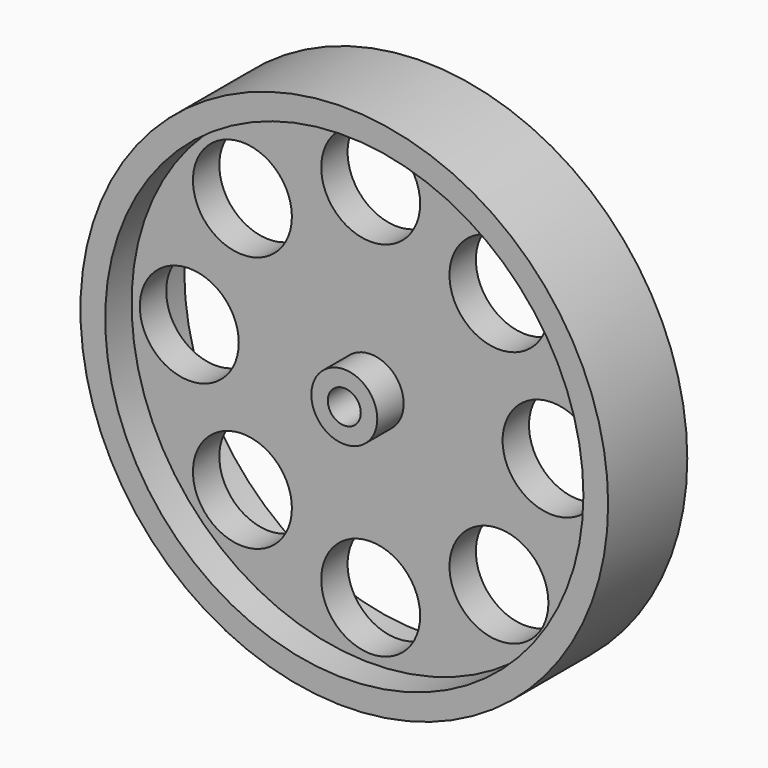
from build123d import *

# Parameters (mm, degrees)
F0_R           = 50.8
F1_DEPTH       = 19.05
F2_R           = 3.175
F3_DEPTH       = 19.051
F4_R           = 9.525
F5_DEPTH       = 19.051
F6_R           = 46.0375
F6_R_2         = 9.525
F6_R_3         = 3.175
F7_DEPTH       = 6.35
F8_R           = 46.0375
F8_R_2         = 9.525
F8_R_3         = 3.175
F9_DEPTH       = 6.35
F10_R          = 6.35
F10_R_2        = 3.175
F11_DEPTH      = 6.35
F11_DEPTH_BACK = 12.7


with BuildPart() as f1:
    # F0 (on Front) → F1 (new body)
    with BuildSketch(Plane.XZ):
        Circle(F0_R)
    extrude(amount=F1_DEPTH)

    # F2 (on face) → F3 (cut, through all)
    with BuildSketch(Plane.XZ.offset(19.05)):
        Circle(F2_R)
    extrude(amount=-F3_DEPTH, mode=Mode.SUBTRACT)

    # F4 (on face) → F5 (cut, through all)
    with BuildSketch(Plane.XZ.offset(19.05)):
        with Locations((-24.6957043329, 24.6957043329)):
            Circle(F4_R)
        with Locations((0, 34.925)):
            Circle(F4_R)
        with Locations((24.6957043329, -24.6957043329)):
            Circle(F4_R)
        with Locations((0, -34.925)):
            Circle(F4_R)
        with Locations((-24.6957043329, -24.6957043329)):
            Circle(F4_R)
        with Locations((-34.925, 0)):
            Circle(F4_R)
        with Locations((24.6957043329, 24.6957043329)):
            Circle(F4_R)
        with Locations((34.925, 0)):
            Circle(F4_R)
    extrude(amount=-F5_DEPTH, mode=Mode.SUBTRACT)

    # F6 (on face) → F7 (cut)
    with BuildSketch(Plane.XZ.offset(19.05)):
        Circle(F6_R)
        with Locations((0, -34.925)):
            Circle(F6_R_2, mode=Mode.SUBTRACT)
        with Locations((-34.925, 0)):
            Circle(F6_R_2, mode=Mode.SUBTRACT)
        with Locations((-24.6957043329, -24.6957043329)):
            Circle(F6_R_2, mode=Mode.SUBTRACT)
        Circle(F6_R_3, mode=Mode.SUBTRACT)
        with Locations((24.6957043329, -24.6957043329)):
            Circle(F6_R_2, mode=Mode.SUBTRACT)
        with Locations((34.925, 0)):
            Circle(F6_R_2, mode=Mode.SUBTRACT)
        with Locations((-24.6957043329, 24.6957043329)):
            Circle(F6_R_2, mode=Mode.SUBTRACT)
        with Locations((0, 34.925)):
            Circle(F6_R_2, mode=Mode.SUBTRACT)
        with Locations((24.6957043329, 24.6957043329)):
            Circle(F6_R_2, mode=Mode.SUBTRACT)
    extrude(amount=-F7_DEPTH, mode=Mode.SUBTRACT)

    # F8 (on face) → F9 (cut)
    with BuildSketch(Plane(origin=(0, 0, 0), x_dir=(-1, 0, 0), z_dir=(0, 1, 0))):
        Circle(F8_R)
        with Locations((0, -34.925)):
            Circle(F8_R_2, mode=Mode.SUBTRACT)
        with Locations((-34.925, 0)):
            Circle(F8_R_2, mode=Mode.SUBTRACT)
        with Locations((-24.6957043329, -24.6957043329)):
            Circle(F8_R_2, mode=Mode.SUBTRACT)
        Circle(F8_R_3, mode=Mode.SUBTRACT)
        with Locations((24.6957043329, -24.6957043329)):
            Circle(F8_R_2, mode=Mode.SUBTRACT)
        with Locations((34.925, 0)):
            Circle(F8_R_2, mode=Mode.SUBTRACT)
        with Locations((-24.6957043329, 24.6957043329)):
            Circle(F8_R_2, mode=Mode.SUBTRACT)
        with Locations((0, 34.925)):
            Circle(F8_R_2, mode=Mode.SUBTRACT)
        with Locations((24.6957043329, 24.6957043329)):
            Circle(F8_R_2, mode=Mode.SUBTRACT)
    extrude(amount=-F9_DEPTH, mode=Mode.SUBTRACT)

    # F10 (on face) → F11 (join, two sides)
    with BuildSketch(Plane.XZ.offset(12.7)) as f11_sk:
        Circle(F10_R)
        Circle(F10_R_2, mode=Mode.SUBTRACT)
    extrude(amount=F11_DEPTH)
    extrude(f11_sk.sketch, amount=-F11_DEPTH_BACK)


solid = f1.part
